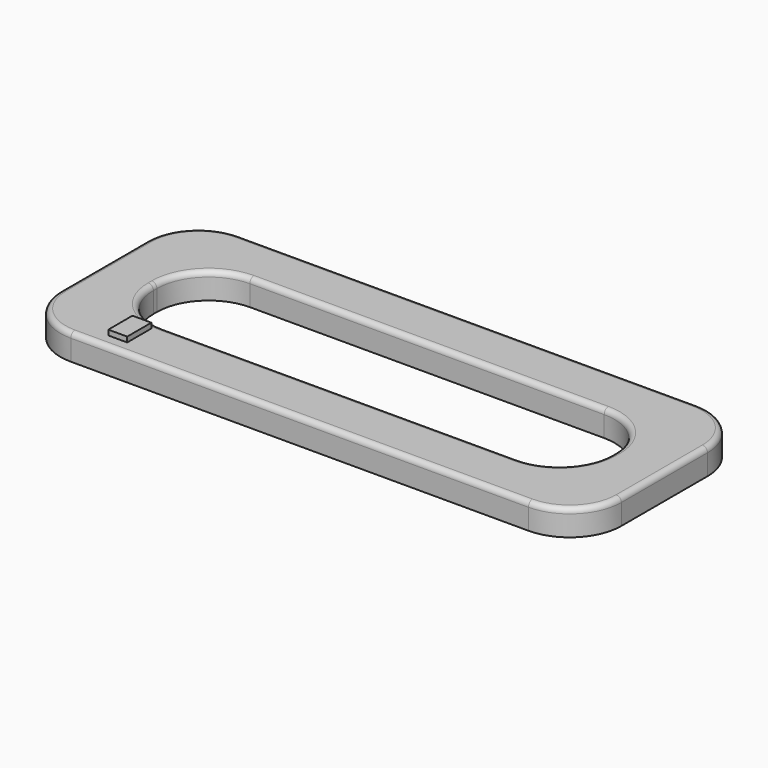
from build123d import *

# Parameters (mm, degrees)
F1_DEPTH = 12.7
F2_R     = 2.54
F3_W     = 9.28931
F3_H     = 14.83982
F4_DEPTH = 2.54


with BuildPart() as f1:
    # F0 (on Top) → F1 (new body)
    with BuildSketch(Plane.XY):
        with BuildLine():
            Line((96.829839, 35.876159), (-128.277585, 35.876159))
            ThreePointArc((-128.277585, 35.876159), (-146.238097, 28.436672), (-153.677585, 10.476159))
            Line((-153.677585, 10.476159), (-153.677585, -42.501916))
            ThreePointArc((-153.677585, -42.501916), (-146.238097, -60.462429), (-128.277585, -67.901916))
            Line((-128.277585, -67.901916), (96.829839, -67.901916))
            ThreePointArc((96.829839, -67.901916), (114.790351, -60.462429), (122.229839, -42.501916))
            Line((122.229839, -42.501916), (122.229839, 10.476159))
            ThreePointArc((122.229839, 10.476159), (114.790351, 28.436672), (96.829839, 35.876159))
        make_face()
        with BuildLine():
            Line((71.429839, -42.501916), (-102.877585, -42.501916))
            ThreePointArc((-102.877585, -42.501916), (-120.838097, -35.062429), (-128.277585, -17.101916))
            Line((-128.277585, -17.101916), (-128.277585, -14.923841))
            ThreePointArc((-128.277585, -14.923841), (-120.838097, 3.036672), (-102.877585, 10.476159))
            Line((-102.877585, 10.476159), (71.429839, 10.476159))
            ThreePointArc((71.429839, 10.476159), (89.390351, 3.036672), (96.829839, -14.923841))
            Line((96.829839, -14.923841), (96.829839, -17.101916))
            ThreePointArc((96.829839, -17.101916), (89.390351, -35.062429), (71.429839, -42.501916))
        make_face(mode=Mode.SUBTRACT)
    extrude(amount=F1_DEPTH)

    # F2
    f2_edges = [f1.edges().sort_by_distance(p)[0] for p in [
        (-15.723873, 35.876159, 12.7),
        (-146.238097, 28.436672, 12.7),
        (-153.677585, -16.012879, 12.7),
        (-146.238097, -60.462429, 12.7),
        (-15.723873, -67.901916, 12.7),
        (114.790351, -60.462429, 12.7),
        (122.229839, -16.012879, 12.7),
        (114.790351, 28.436672, 12.7),
        (-15.723873, -42.501916, 12.7),
        (-120.838097, -35.062429, 12.7),
        (-128.277585, -16.012879, 12.7),
        (-120.838097, 3.036672, 12.7),
        (-15.723873, 10.476159, 12.7),
        (89.390351, 3.036672, 12.7),
        (96.829839, -16.012879, 12.7),
        (89.390351, -35.062429, 12.7),
    ]]
    fillet(f2_edges, radius=F2_R)

    # F3 (on face) → F4 (join)
    with BuildSketch(Plane.XY.offset(12.7)):
        with Locations((-110.76466, -53.500641)):
            Rectangle(F3_W, F3_H)
    extrude(amount=F4_DEPTH)


solid = f1.part
